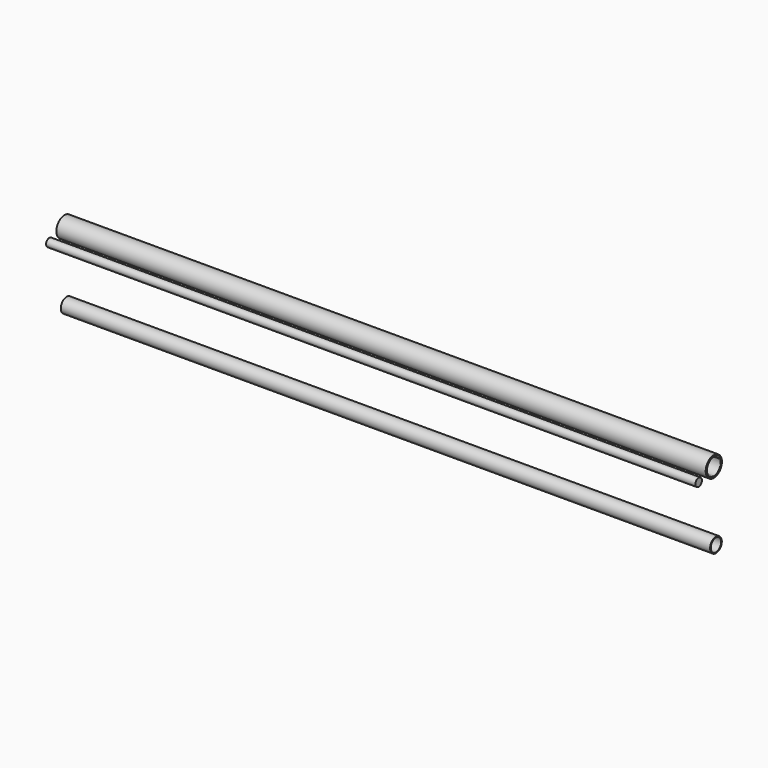
from build123d import *

# Parameters (mm, degrees)
F0_R     = 1.25
F0_R_2   = 1.15
F1_DEPTH = 80
F2_R     = 0.9
F2_R_2   = 0.8
F3_DEPTH = 80
F5_DEPTH = 80
F6_R     = 0.5
F7_DEPTH = 80


with BuildPart() as f1:
    # F0 (on Right) → F1 (new body)
    with BuildSketch(Plane.YZ):
        with Locations((15.892187, 33.758856)):
            Circle(F0_R)
        with Locations((15.892187, 33.758856)):
            Circle(F0_R_2, mode=Mode.SUBTRACT)
    extrude(amount=F1_DEPTH)


with BuildPart() as f3:
    # F2 (on Right) → F3 (new body)
    with BuildSketch(Plane.YZ):
        with Locations((16.224561, 25.118472)):
            Circle(F2_R)
        with Locations((16.224561, 25.118472)):
            Circle(F2_R_2, mode=Mode.SUBTRACT)
    extrude(amount=F3_DEPTH)


with BuildPart() as f5:
    # F4 (on Right) → F5 (new body)
    with BuildSketch(Plane.YZ):
        with BuildLine():
            Line((15.891133, 34.811989), (15.891133, 34.861989))
            ThreePointArc((15.891133, 34.861989), (14.791133, 33.761989), (15.891133, 32.661989))
            Line((15.891133, 32.661989), (15.891133, 32.711989))
            ThreePointArc((15.891133, 32.711989), (14.841133, 33.761989), (15.891133, 34.811989))
        make_face()
        with BuildLine():
            Line((15.891133, 32.711989), (15.891133, 32.661989))
            ThreePointArc((15.891133, 32.661989), (16.813033, 33.161906), (16.896982, 34.207262))
            Line((16.896982, 34.207262), (16.851261, 34.187022))
            ThreePointArc((16.851261, 34.187022), (16.771129, 33.189183), (15.891133, 32.711989))
        make_face()
    extrude(amount=F5_DEPTH)


with BuildPart() as f7:
    # F6 (on Right) → F7 (new body)
    with BuildSketch(Plane.YZ):
        with Locations((13.55806, 32.99414)):
            Circle(F6_R)
    extrude(amount=F7_DEPTH)


solid = Compound([f1.part, f3.part, f5.part, f7.part])
